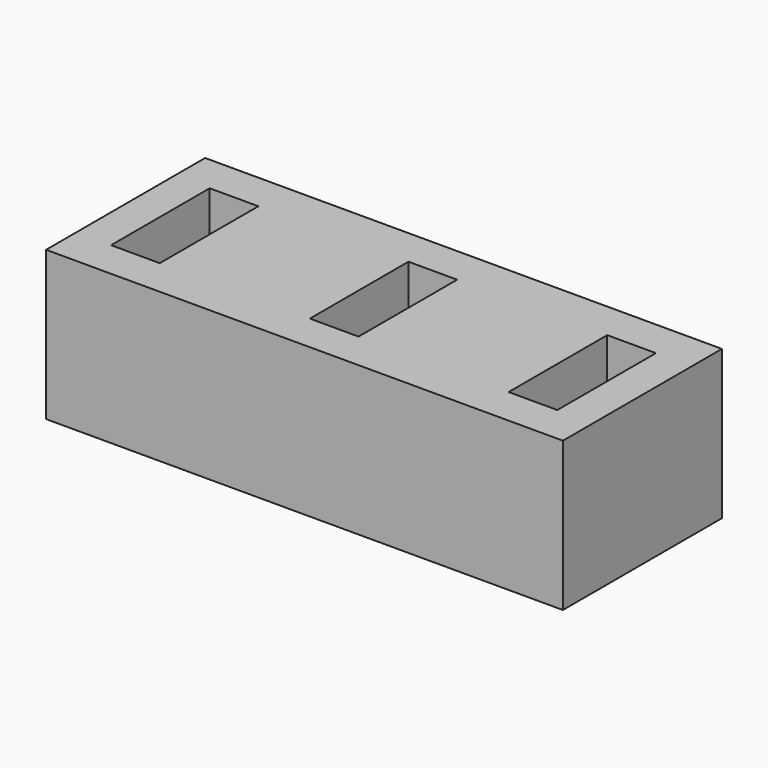
from build123d import *

# Parameters (mm, degrees)
BOX003_W     = 4.9
BOX003_H     = 12.4
BOX003_DEPTH = 10
BOX002_W     = 4.9
BOX002_H     = 12.4
BOX002_DEPTH = 10
BOX001_W     = 4.9
BOX001_H     = 12.4
BOX001_DEPTH = 10
BOX_W        = 52
BOX_H        = 20
BOX_DEPTH    = 15


with BuildPart() as cubo003:
    # Box003 → Box003 (new body)
    with BuildSketch(Plane(origin=(43.5, 3.8, 5), x_dir=(1, 0, 0), z_dir=(0, 0, 1))):
        with Locations((2.45, 6.2)):
            Rectangle(BOX003_W, BOX003_H)
    extrude(amount=BOX003_DEPTH)


with BuildPart() as cubo002:
    # Box002 → Box002 (new body)
    with BuildSketch(Plane(origin=(23.5, 3.8, 5), x_dir=(1, 0, 0), z_dir=(0, 0, 1))):
        with Locations((2.45, 6.2)):
            Rectangle(BOX002_W, BOX002_H)
    extrude(amount=BOX002_DEPTH)


with BuildPart() as cubo001:
    # Box001 → Box001 (new body)
    with BuildSketch(Plane(origin=(3.5, 3.8, 5), x_dir=(1, 0, 0), z_dir=(0, 0, 1))):
        with Locations((2.45, 6.2)):
            Rectangle(BOX001_W, BOX001_H)
    extrude(amount=BOX001_DEPTH)


with BuildPart() as cut002:
    # Box → Box (new body)
    with BuildSketch(Plane.XY):
        with Locations((26, 10)):
            Rectangle(BOX_W, BOX_H)
    extrude(amount=BOX_DEPTH)

    # Cut: cut Cubo001
    add(cubo001.part, mode=Mode.SUBTRACT)

    # Cut001: cut Cubo002
    add(cubo002.part, mode=Mode.SUBTRACT)

    # Cut002: cut Cubo003
    add(cubo003.part, mode=Mode.SUBTRACT)


solid = cut002.part
